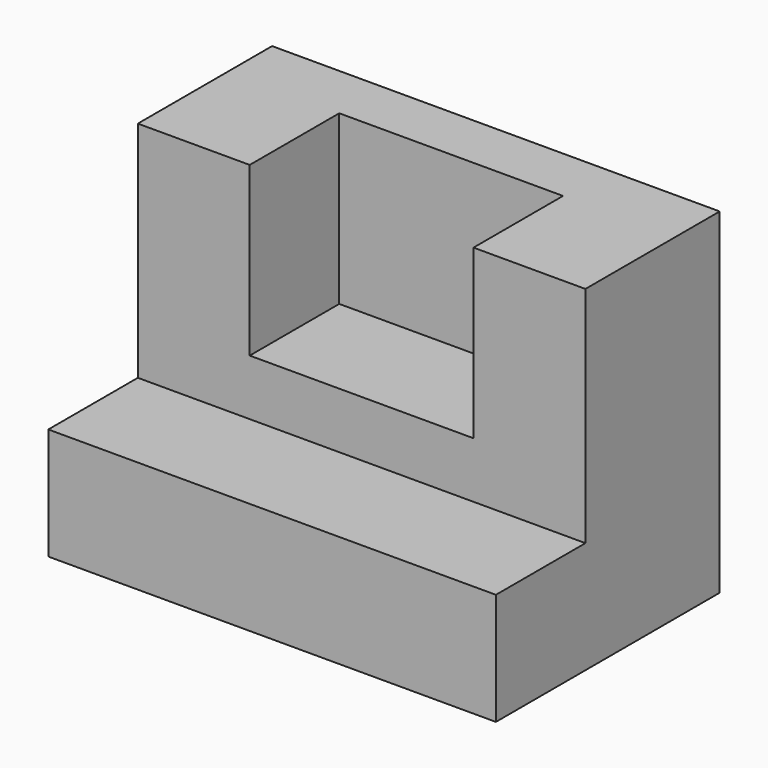
from build123d import *

# Parameters (mm, degrees)
F1_DEPTH = 101.6
F2_W     = 50.8
F2_H     = 38.1
F3_DEPTH = 25.4


with BuildPart() as f1:
    # F0 (on Right) → F1 (new body)
    with BuildSketch(Plane.YZ):
        Polygon((-37.874809, -21.479675), (-37.874809, -46.879675), (25.625191, -46.879675), (25.625191, 29.320325), (-12.474809, 29.320325), (-12.474809, -21.479675), align=None)
    extrude(amount=-F1_DEPTH)

    # F2 (on face) → F3 (cut)
    with BuildSketch(Plane.XZ.offset(12.474809)):
        with Locations((-50.8, 10.270325)):
            Rectangle(F2_W, F2_H)
    extrude(amount=-F3_DEPTH, mode=Mode.SUBTRACT)


solid = f1.part
